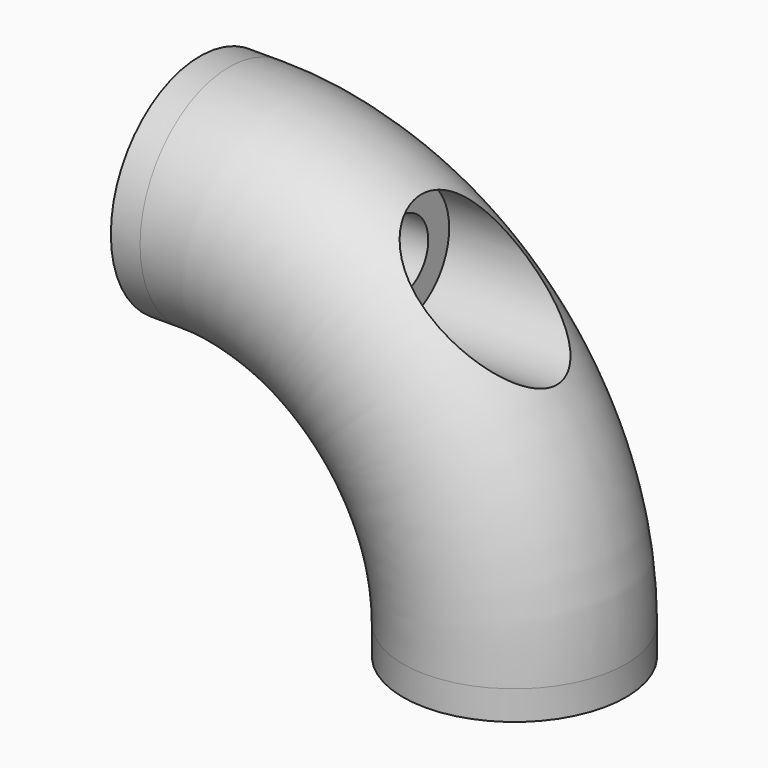
from build123d import *

# Parameters (mm, degrees)
F1_R      = 4.96
F3_R      = 1.5875
F4_DEPTH  = 18.961
F6_R      = 2.75
F7_DEPTH  = 10.16
F9_W      = 0.254
F9_H      = 19.05
F10_DEPTH = 18.961


with BuildPart() as f2:
    # F2: sweep along a path in F0
    with BuildLine(Plane.XZ) as f2_path:
        Line((0, 0), (1.3, 0))
        ThreePointArc((1.3, 0), (10.280256, -3.719744), (14, -12.7))
        Line((14, -12.7), (14, -14))
    # F1 (on Right) → F2 (sweep)
    with BuildSketch(Plane.YZ):
        Circle(F1_R)
    sweep(path=f2_path.line)

    # F3 (on face) → F4 (cut, through all)
    with BuildSketch(Plane(origin=(0, 0, 0), x_dir=(0, -1, 0), z_dir=(-1, 0, 0))):
        Circle(F3_R)
    extrude(amount=-F4_DEPTH, mode=Mode.SUBTRACT)

    # F6 (on offset) → F7 (cut)
    with BuildSketch(Plane.YZ.offset(19.05)):
        Circle(F6_R)
    extrude(amount=-F7_DEPTH, mode=Mode.SUBTRACT)

    # F9 (on Right) → F10 (cut, through all)
    with BuildSketch(Plane.YZ):
        with Locations((4.853686, -4.475)):
            Rectangle(F9_W, F9_H)
    extrude(amount=F10_DEPTH, mode=Mode.SUBTRACT)


solid = f2.part
